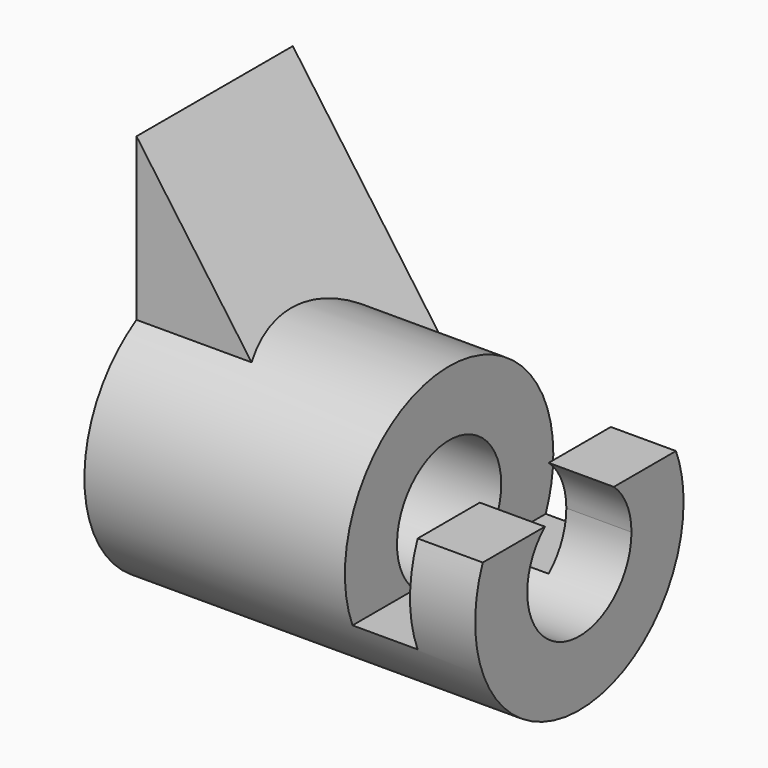
from build123d import *

# Parameters (mm, degrees)
F0_R          = 12.7
F1_DEPTH      = 76.2
F3_DEPTH      = 25.401
F3_DEPTH_BACK = 25.4
F5_DEPTH      = 25.4
F6_DEPTH      = 12.7
F7_DEPTH      = 50.8


with BuildPart() as f1:
    # F0 (on Right) → F1 (new body)
    with BuildSketch(Plane.YZ):
        with BuildLine():
            ThreePointArc((-19.5864308625, 16.171942557), (-8.5925740058, -23.9024616296), (25.4, 0))
            ThreePointArc((25.4, 0), (8.5925740058, 23.9024616296), (-19.5864308625, 16.171942557))
        make_face()
        Circle(F0_R, mode=Mode.SUBTRACT)
    extrude(amount=F1_DEPTH)

    # F2 (on Front) → F3 (cut, two sides)
    with BuildSketch(Plane.XZ) as f3_sk:
        Polygon((76.2, 9.525), (76.2, 25.4), (50.8, 25.4), (50.8, -9.525), (63.5, -9.525), (63.5, 9.525), align=None)
    extrude(amount=-F3_DEPTH, mode=Mode.SUBTRACT)
    extrude(f3_sk.sketch, amount=F3_DEPTH_BACK, mode=Mode.SUBTRACT)

    # F4 (on Front) → F5 (join)
    with BuildSketch(Plane.XZ):
        Polygon((38.1, 0), (0, 53.5043813288), (0, 0), align=None)
    extrude(amount=-F5_DEPTH)

    # F4 (on Front) → F6 (join)
    with BuildSketch(Plane.XZ):
        Polygon((38.1, 0), (0, 53.5043813288), (0, 0), align=None)
    extrude(amount=F6_DEPTH)

    # F0 (on Right) → F7 (cut)
    with BuildSketch(Plane.YZ):
        Circle(F0_R)
    extrude(amount=F7_DEPTH, mode=Mode.SUBTRACT)


solid = f1.part
